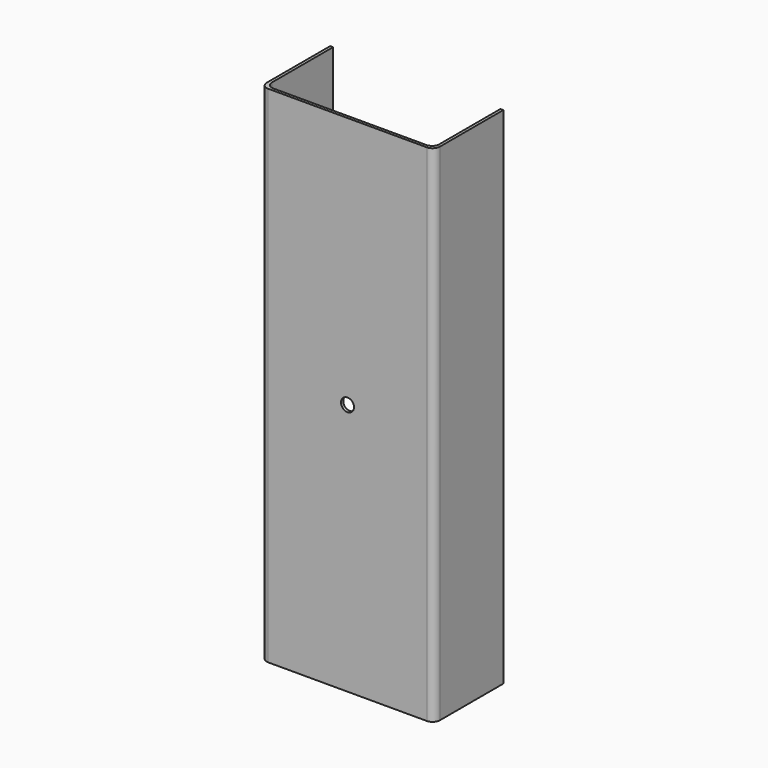
from build123d import *

# Parameters (mm, degrees)
F0_W     = 120
F0_H     = 60
F1_DEPTH = 175
F2_T     = -2
F3_R     = 5
F4_R     = 4.5
F5_DEPTH = 60.001


with BuildPart() as f1:
    # F0 (on Top) → F1 (new body, symmetric)
    with BuildSketch(Plane.XY):
        Rectangle(F0_W, F0_H)
    extrude(amount=F1_DEPTH, both=True)

    # F2
    f2_openings = [f1.faces().sort_by_distance(p)[0] for p in [
        (0, 30, 0),
        (0, 0, 175),
        (0, 0, -175),
    ]]
    offset(amount=F2_T, openings=f2_openings)

    # F3
    f3_edges = [f1.edges().sort_by_distance(p)[0] for p in [
        (60, -30, 0),
        (-58, -28, 0),
        (58, -28, 0),
        (-60, -30, 0),
    ]]
    fillet(f3_edges, radius=F3_R)

    # F4 (on face) → F5 (cut, through all)
    with BuildSketch(Plane.XZ.offset(30)):
        Circle(F4_R)
    extrude(amount=-F5_DEPTH, mode=Mode.SUBTRACT)


solid = f1.part
